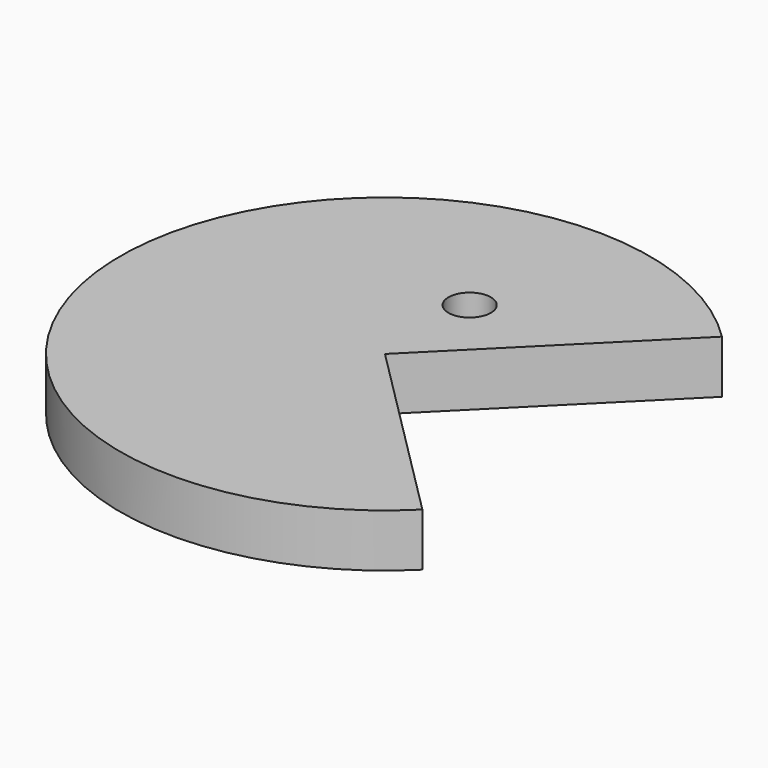
from build123d import *

# Parameters (mm, degrees)
CYLINDER001_R            = 2
CYLINDER001_DEPTH        = 10
CYLINDER_W               = 25
CYLINDER_H               = 5
CYLINDER_ANGLE           = 270
CYLINDER_PLACEMENT_ANGLE = 45


with BuildPart() as ull:
    # Cylinder001 → Cylinder001 (new body)
    with BuildSketch(Plane(origin=(0, 10, -2), x_dir=(1, 0, 0), z_dir=(0, 0, 1))):
        Circle(CYLINDER001_R)
    extrude(amount=CYLINDER001_DEPTH)


with BuildPart() as obj1:
    # Cylinder → Cylinder (revolve)
    with BuildSketch(Plane.XZ):
        with Locations((12.5, 2.5)):
            Rectangle(CYLINDER_W, CYLINDER_H)
    revolve(axis=Axis((0, 0, 0), (0, 0, 1)), revolution_arc=CYLINDER_ANGLE)


with BuildPart() as obj1_1:
    # Cylinder placement: moved
    add(obj1.part.rotate(Axis((0, 0, 0), (0, 0, 1)), CYLINDER_PLACEMENT_ANGLE))

    # Cut: cut Ull
    add(ull.part, mode=Mode.SUBTRACT)


solid = obj1_1.part
